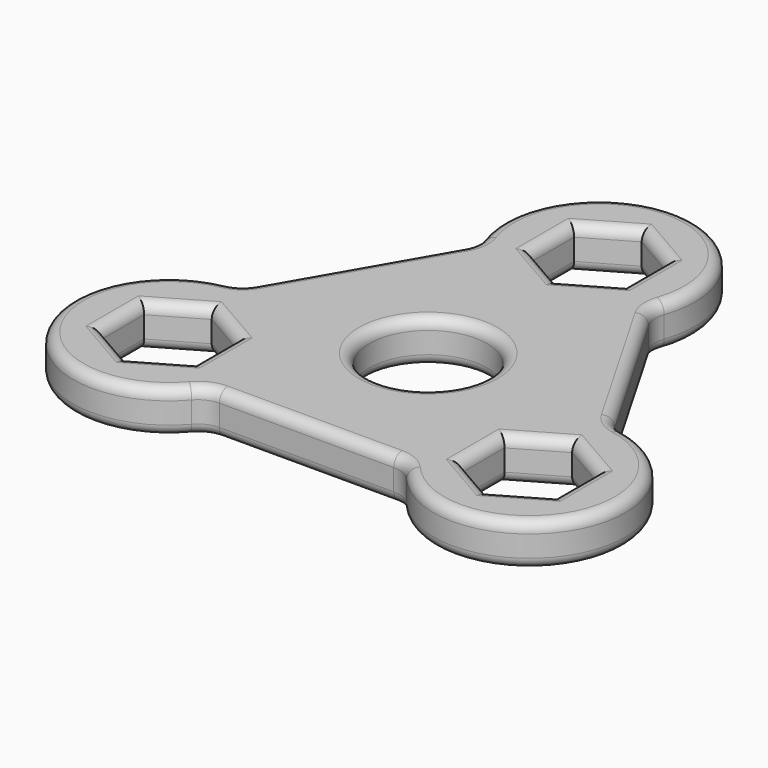
from build123d import *

# Parameters (mm, degrees)
F0_R     = 11
F1_DEPTH = 8
F2_R     = 2
F3_R     = 2


with BuildPart() as f1:
    # F0 (on Top) → F1 (new body)
    with BuildSketch(Plane.XY):
        with BuildLine():
            ThreePointArc((-33.717447, 1.599669), (-35.154523, 0.021648), (-37.118751, -0.813303))
            ThreePointArc((-37.118751, -0.813303), (-49.363448, -27.5), (-20.129742, -30.23913))
            ThreePointArc((-20.129742, -30.23913), (-18.424539, -28.955534), (-16.339395, -28.5))
            Line((-16.339395, -28.5), (16.339395, -28.5))
            ThreePointArc((16.339395, -28.5), (18.424539, -28.955534), (20.129742, -30.23913))
            ThreePointArc((20.129742, -30.23913), (49.363448, -27.5), (37.118751, -0.813303))
            ThreePointArc((37.118751, -0.813303), (35.154523, 0.021648), (33.717447, 1.599669))
            Line((33.717447, 1.599669), (17.378052, 29.900331))
            ThreePointArc((17.378052, 29.900331), (16.729984, 31.933886), (16.98901, 34.052433))
            ThreePointArc((16.98901, 34.052433), (0, 58), (-16.98901, 34.052433))
            ThreePointArc((-16.98901, 34.052433), (-16.729984, 31.933886), (-17.378052, 29.900331))
            Line((-17.378052, 29.900331), (-33.717447, 1.599669))
        make_face()
        Polygon((-25.114737, -23.5), (-33.774991, -28.5), (-42.435245, -23.5), (-42.435245, -13.5), (-33.774991, -8.5), (-25.114737, -13.5), align=None, mode=Mode.SUBTRACT)
        Circle(F0_R, mode=Mode.SUBTRACT)
        Polygon((33.774991, -8.5), (42.435245, -13.5), (42.435245, -23.5), (33.774991, -28.5), (25.114737, -23.5), (25.114737, -13.5), align=None, mode=Mode.SUBTRACT)
        Polygon((-8.660254, 35), (-8.660254, 45), (0, 50), (8.660254, 45), (8.660254, 35), (0, 30), align=None, mode=Mode.SUBTRACT)
    extrude(amount=F1_DEPTH)

    # F2
    f2_edges = [f1.edges().sort_by_distance(p)[0] for p in [
        (-25.547749, 15.75, 8),
        (-35.154523, 0.021648, 8),
        (-49.363448, -27.5, 8),
        (-18.424539, -28.955534, 8),
        (0, -28.5, 8),
        (18.424539, -28.955534, 8),
        (49.363448, -27.5, 8),
        (35.154523, 0.021648, 8),
        (25.547749, 15.75, 8),
        (16.729984, 31.933886, 8),
        (0, 58, 8),
        (-16.729984, 31.933886, 8),
        (-29.444864, -11, 8),
        (-25.114737, -18.5, 8),
        (-29.444864, -26, 8),
        (-38.105118, -26, 8),
        (-42.435245, -18.5, 8),
        (-38.105118, -11, 8),
        (-11, 0, 8),
        (38.105118, -11, 8),
        (42.435245, -18.5, 8),
        (38.105118, -26, 8),
        (29.444864, -26, 8),
        (25.114737, -18.5, 8),
        (29.444864, -11, 8),
        (-8.660254, 40, 8),
        (-4.330127, 47.5, 8),
        (4.330127, 47.5, 8),
        (8.660254, 40, 8),
        (4.330127, 32.5, 8),
        (-4.330127, 32.5, 8),
    ]]
    fillet(f2_edges, radius=F2_R)

    # F3
    f3_edges = [f1.edges().sort_by_distance(p)[0] for p in [
        (-25.547749, 15.75, 0),
        (-35.154523, 0.021648, 0),
        (-49.363448, -27.5, 0),
        (-18.424539, -28.955534, 0),
        (0, -28.5, 0),
        (18.424539, -28.955534, 0),
        (49.363448, -27.5, 0),
        (35.154523, 0.021648, 0),
        (25.547749, 15.75, 0),
        (16.729984, 31.933886, 0),
        (0, 58, 0),
        (-16.729984, 31.933886, 0),
        (-29.444864, -11, 0),
        (-25.114737, -18.5, 0),
        (-29.444864, -26, 0),
        (-38.105118, -26, 0),
        (-42.435245, -18.5, 0),
        (-38.105118, -11, 0),
        (-11, 0, 0),
        (38.105118, -11, 0),
        (42.435245, -18.5, 0),
        (38.105118, -26, 0),
        (29.444864, -26, 0),
        (25.114737, -18.5, 0),
        (29.444864, -11, 0),
        (-8.660254, 40, 0),
        (-4.330127, 47.5, 0),
        (4.330127, 47.5, 0),
        (8.660254, 40, 0),
        (4.330127, 32.5, 0),
        (-4.330127, 32.5, 0),
    ]]
    fillet(f3_edges, radius=F3_R)


solid = f1.part
